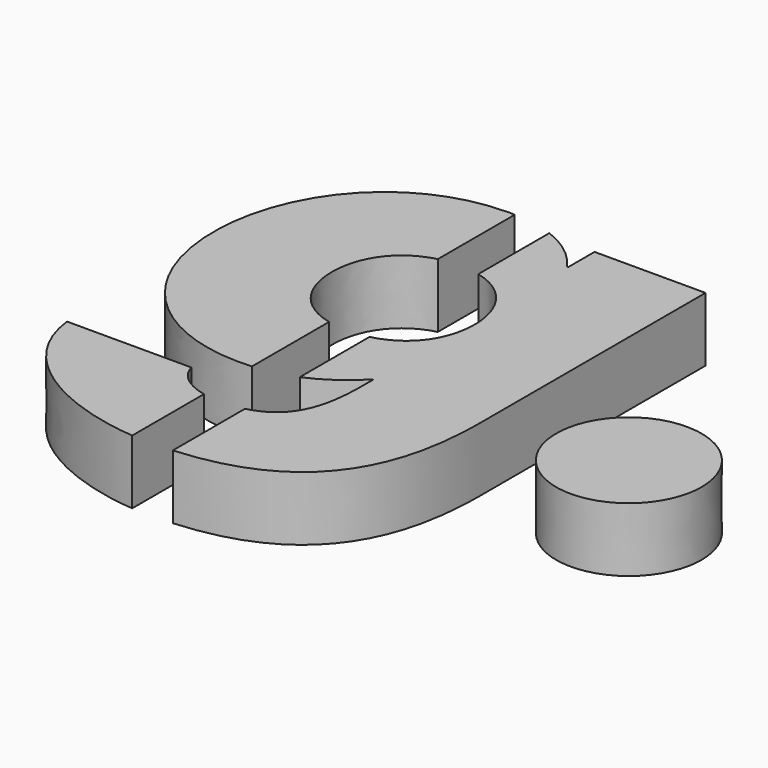
from build123d import *

# Parameters (mm, degrees)
EXTRUDE001_DEPTH = 6.5
EXTRUDE_DEPTH    = 6.5


with BuildPart() as extrude001:
    # Sketch004 → Extrude001 (new body)
    with BuildSketch(Plane.XY):
        with BuildLine():
            add(Edge.make_bspline(
                [(51.870751, -26.121078), (47.777964, -26.121078), (44.506444, -29.395138), (44.506444, -33.485949)],
                knots=[0, 0, 0, 0, 1, 1, 1, 1], degree=3))
            add(Edge.make_bspline(
                [(44.506444, -33.485949), (44.506444, -37.513824), (47.777964, -40.850256), (51.870751, -40.850256)],
                knots=[0, 0, 0, 0, 1, 1, 1, 1], degree=3))
            add(Edge.make_bspline(
                [(51.870751, -40.850256), (55.962127, -40.850256), (59.233364, -37.514107), (59.233364, -33.485949)],
                knots=[0, 0, 0, 0, 1, 1, 1, 1], degree=3))
            add(Edge.make_bspline(
                [(59.233364, -33.485949), (59.233364, -29.395138), (55.962127, -26.121078), (51.870751, -26.121078)],
                knots=[0, 0, 0, 0, 1, 1, 1, 1], degree=3))
        make_face()
        with BuildLine():
            add(Edge.make_bspline(
                [(14.889762, -42.692884), (2.282896, -42.692884)],
                knots=[0, 0, 44.67, 44.67], degree=1))
            add(Edge.make_bspline(
                [(2.282896, -42.692884), (3.193062, -50.361427), (11.514667, -54.163242), (18.519987, -54.726558)],
                knots=[0, 0, 0, 0, 1, 1, 1, 1], degree=3))
            add(Edge.make_bspline(
                [(18.519987, -54.726558), (18.519987, -45.635333)],
                knots=[0, 0, 32.213, 32.213], degree=1))
            add(Edge.make_bspline(
                [(18.519987, -45.635333), (17.989691, -45.514824), (17.468427, -45.341258), (16.99006, -45.101933)],
                knots=[0, 0, 0, 0, 1, 1, 1, 1], degree=3))
            add(Edge.make_bspline(
                [(16.99006, -45.101933), (16.001436, -44.608609), (15.198513, -43.803993), (14.889762, -42.692884)],
                knots=[0, 0, 0, 0, 1, 1, 1, 1], degree=3))
        make_face()
        with BuildLine():
            add(Edge.make_bspline(
                [(1.726918, -23.41118), (1.726918, -32.558002), (8.09244, -39.602269), (17.362029, -39.602269)],
                knots=[0, 0, 0, 0, 1, 1, 1, 1], degree=3))
            add(Edge.make_bspline(
                [(17.362029, -39.602269), (17.761656, -39.602269), (18.143784, -39.580538), (18.520269, -39.551187)],
                knots=[0, 0, 0, 0, 1, 1, 1, 1], degree=3))
            add(Edge.make_bspline(
                [(18.520269, -39.551187), (18.520269, -29.785451)],
                knots=[0, 0, 34.603, 34.603], degree=1))
            add(Edge.make_bspline(
                [(18.520269, -29.785451), (15.216576, -28.997204), (13.343467, -26.286178), (13.343467, -22.918138)],
                knots=[0, 0, 0, 0, 1, 1, 1, 1], degree=3))
            add(Edge.make_bspline(
                [(13.343467, -22.918138), (13.343467, -19.652262), (15.216576, -16.829476), (18.519987, -16.001436)],
                knots=[0, 0, 0, 0, 1, 1, 1, 1], degree=3))
            add(Edge.make_bspline(
                [(18.519987, -16.001436), (18.519987, -6.255738)],
                knots=[0, 0, 34.532, 34.532], degree=1))
            add(Edge.make_bspline(
                [(18.519987, -6.255738), (18.339647, -6.248964), (18.160718, -6.23316), (17.978967, -6.23316)],
                knots=[0, 0, 0, 0, 1, 1, 1, 1], degree=3))
            add(Edge.make_bspline(
                [(17.978967, -6.23316), (8.277296, -6.232878), (1.726918, -14.142438), (1.726918, -23.41118)],
                knots=[0, 0, 0, 0, 1, 1, 1, 1], degree=3))
        make_face()
        with BuildLine():
            add(Edge.make_bspline(
                [(27.433411, -10.61974), (27.310644, -10.61974)],
                knots=[0, 0, 0.435, 0.435], degree=1))
            add(Edge.make_bspline(
                [(27.310644, -10.61974), (26.067173, -8.857262), (24.455684, -7.699869), (22.627731, -7.016327)],
                knots=[0, 0, 0, 0, 1, 1, 1, 1], degree=3))
            add(Edge.make_bspline(
                [(22.627731, -7.016327), (22.627731, -16.001153)],
                knots=[0, 0, 31.836, 31.836], degree=1))
            add(Edge.make_bspline(
                [(22.627731, -16.001153), (25.929449, -16.829193), (27.803404, -19.65198), (27.803404, -22.917856)],
                knots=[0, 0, 0, 0, 1, 1, 1, 1], degree=3))
            add(Edge.make_bspline(
                [(27.803404, -22.917856), (27.803404, -26.285896), (25.929449, -28.996076), (22.627731, -29.785169)],
                knots=[0, 0, 0, 0, 1, 1, 1, 1], degree=3))
            add(Edge.make_bspline(
                [(22.627731, -29.785169), (22.627731, -38.620982)],
                knots=[0, 0, 31.308, 31.308], degree=1))
            add(Edge.make_bspline(
                [(22.627731, -38.620982), (24.359164, -37.907242), (25.909129, -36.802624), (27.433693, -35.276649)],
                knots=[0, 0, 0, 0, 1, 1, 1, 1], degree=3))
            add(Edge.make_bspline(
                [(27.433693, -35.276649), (27.433693, -36.75888)],
                knots=[0, 0, 5.252, 5.252], degree=1))
            add(Edge.make_bspline(
                [(27.433693, -36.75888), (27.433693, -41.106796), (26.575738, -44.599013), (22.627731, -45.565624)],
                knots=[0, 0, 0, 0, 1, 1, 1, 1], degree=3))
            add(Edge.make_bspline(
                [(22.627731, -45.565624), (22.627731, -54.70906)],
                knots=[0, 0, 32.398, 32.398], degree=1))
            add(Edge.make_bspline(
                [(22.627731, -54.70906), (32.869293, -54.008584), (38.681096, -48.448524), (38.681096, -35.894998)],
                knots=[0, 0, 0, 0, 1, 1, 1, 1], degree=3))
            add(Edge.make_bspline(
                [(38.681096, -35.894998), (38.681096, -7.282744)],
                knots=[0, 0, 101.382, 101.382], degree=1))
            add(Edge.make_bspline(
                [(38.681096, -7.282744), (27.433411, -7.282744)],
                knots=[0, 0, 39.854, 39.854], degree=1))
            add(Edge.make_bspline(
                [(27.433411, -7.282744), (27.433411, -10.61974)],
                knots=[0, 0, 11.824, 11.824], degree=1))
        make_face()
    extrude(amount=EXTRUDE001_DEPTH)


with BuildPart() as fusion:
    # Sketch004 → Extrude (new body)
    with BuildSketch(Plane.XY):
        with BuildLine():
            add(Edge.make_bspline(
                [(51.870751, -26.121078), (47.777964, -26.121078), (44.506444, -29.395138), (44.506444, -33.485949)],
                knots=[0, 0, 0, 0, 1, 1, 1, 1], degree=3))
            add(Edge.make_bspline(
                [(44.506444, -33.485949), (44.506444, -37.513824), (47.777964, -40.850256), (51.870751, -40.850256)],
                knots=[0, 0, 0, 0, 1, 1, 1, 1], degree=3))
            add(Edge.make_bspline(
                [(51.870751, -40.850256), (55.962127, -40.850256), (59.233364, -37.514107), (59.233364, -33.485949)],
                knots=[0, 0, 0, 0, 1, 1, 1, 1], degree=3))
            add(Edge.make_bspline(
                [(59.233364, -33.485949), (59.233364, -29.395138), (55.962127, -26.121078), (51.870751, -26.121078)],
                knots=[0, 0, 0, 0, 1, 1, 1, 1], degree=3))
        make_face()
        with BuildLine():
            add(Edge.make_bspline(
                [(14.889762, -42.692884), (2.282896, -42.692884)],
                knots=[0, 0, 44.67, 44.67], degree=1))
            add(Edge.make_bspline(
                [(2.282896, -42.692884), (3.193062, -50.361427), (11.514667, -54.163242), (18.519987, -54.726558)],
                knots=[0, 0, 0, 0, 1, 1, 1, 1], degree=3))
            add(Edge.make_bspline(
                [(18.519987, -54.726558), (18.519987, -45.635333)],
                knots=[0, 0, 32.213, 32.213], degree=1))
            add(Edge.make_bspline(
                [(18.519987, -45.635333), (17.989691, -45.514824), (17.468427, -45.341258), (16.99006, -45.101933)],
                knots=[0, 0, 0, 0, 1, 1, 1, 1], degree=3))
            add(Edge.make_bspline(
                [(16.99006, -45.101933), (16.001436, -44.608609), (15.198513, -43.803993), (14.889762, -42.692884)],
                knots=[0, 0, 0, 0, 1, 1, 1, 1], degree=3))
        make_face()
        with BuildLine():
            add(Edge.make_bspline(
                [(1.726918, -23.41118), (1.726918, -32.558002), (8.09244, -39.602269), (17.362029, -39.602269)],
                knots=[0, 0, 0, 0, 1, 1, 1, 1], degree=3))
            add(Edge.make_bspline(
                [(17.362029, -39.602269), (17.761656, -39.602269), (18.143784, -39.580538), (18.520269, -39.551187)],
                knots=[0, 0, 0, 0, 1, 1, 1, 1], degree=3))
            add(Edge.make_bspline(
                [(18.520269, -39.551187), (18.520269, -29.785451)],
                knots=[0, 0, 34.603, 34.603], degree=1))
            add(Edge.make_bspline(
                [(18.520269, -29.785451), (15.216576, -28.997204), (13.343467, -26.286178), (13.343467, -22.918138)],
                knots=[0, 0, 0, 0, 1, 1, 1, 1], degree=3))
            add(Edge.make_bspline(
                [(13.343467, -22.918138), (13.343467, -19.652262), (15.216576, -16.829476), (18.519987, -16.001436)],
                knots=[0, 0, 0, 0, 1, 1, 1, 1], degree=3))
            add(Edge.make_bspline(
                [(18.519987, -16.001436), (18.519987, -6.255738)],
                knots=[0, 0, 34.532, 34.532], degree=1))
            add(Edge.make_bspline(
                [(18.519987, -6.255738), (18.339647, -6.248964), (18.160718, -6.23316), (17.978967, -6.23316)],
                knots=[0, 0, 0, 0, 1, 1, 1, 1], degree=3))
            add(Edge.make_bspline(
                [(17.978967, -6.23316), (8.277296, -6.232878), (1.726918, -14.142438), (1.726918, -23.41118)],
                knots=[0, 0, 0, 0, 1, 1, 1, 1], degree=3))
        make_face()
        with BuildLine():
            add(Edge.make_bspline(
                [(27.433411, -10.61974), (27.310644, -10.61974)],
                knots=[0, 0, 0.435, 0.435], degree=1))
            add(Edge.make_bspline(
                [(27.310644, -10.61974), (26.067173, -8.857262), (24.455684, -7.699869), (22.627731, -7.016327)],
                knots=[0, 0, 0, 0, 1, 1, 1, 1], degree=3))
            add(Edge.make_bspline(
                [(22.627731, -7.016327), (22.627731, -16.001153)],
                knots=[0, 0, 31.836, 31.836], degree=1))
            add(Edge.make_bspline(
                [(22.627731, -16.001153), (25.929449, -16.829193), (27.803404, -19.65198), (27.803404, -22.917856)],
                knots=[0, 0, 0, 0, 1, 1, 1, 1], degree=3))
            add(Edge.make_bspline(
                [(27.803404, -22.917856), (27.803404, -26.285896), (25.929449, -28.996076), (22.627731, -29.785169)],
                knots=[0, 0, 0, 0, 1, 1, 1, 1], degree=3))
            add(Edge.make_bspline(
                [(22.627731, -29.785169), (22.627731, -38.620982)],
                knots=[0, 0, 31.308, 31.308], degree=1))
            add(Edge.make_bspline(
                [(22.627731, -38.620982), (24.359164, -37.907242), (25.909129, -36.802624), (27.433693, -35.276649)],
                knots=[0, 0, 0, 0, 1, 1, 1, 1], degree=3))
            add(Edge.make_bspline(
                [(27.433693, -35.276649), (27.433693, -36.75888)],
                knots=[0, 0, 5.252, 5.252], degree=1))
            add(Edge.make_bspline(
                [(27.433693, -36.75888), (27.433693, -41.106796), (26.575738, -44.599013), (22.627731, -45.565624)],
                knots=[0, 0, 0, 0, 1, 1, 1, 1], degree=3))
            add(Edge.make_bspline(
                [(22.627731, -45.565624), (22.627731, -54.70906)],
                knots=[0, 0, 32.398, 32.398], degree=1))
            add(Edge.make_bspline(
                [(22.627731, -54.70906), (32.869293, -54.008584), (38.681096, -48.448524), (38.681096, -35.894998)],
                knots=[0, 0, 0, 0, 1, 1, 1, 1], degree=3))
            add(Edge.make_bspline(
                [(38.681096, -35.894998), (38.681096, -7.282744)],
                knots=[0, 0, 101.382, 101.382], degree=1))
            add(Edge.make_bspline(
                [(38.681096, -7.282744), (27.433411, -7.282744)],
                knots=[0, 0, 39.854, 39.854], degree=1))
            add(Edge.make_bspline(
                [(27.433411, -7.282744), (27.433411, -10.61974)],
                knots=[0, 0, 11.824, 11.824], degree=1))
        make_face()
    extrude(amount=EXTRUDE_DEPTH)

    # Fusion: union Extrude001
    add(extrude001.part)


solid = fusion.part
